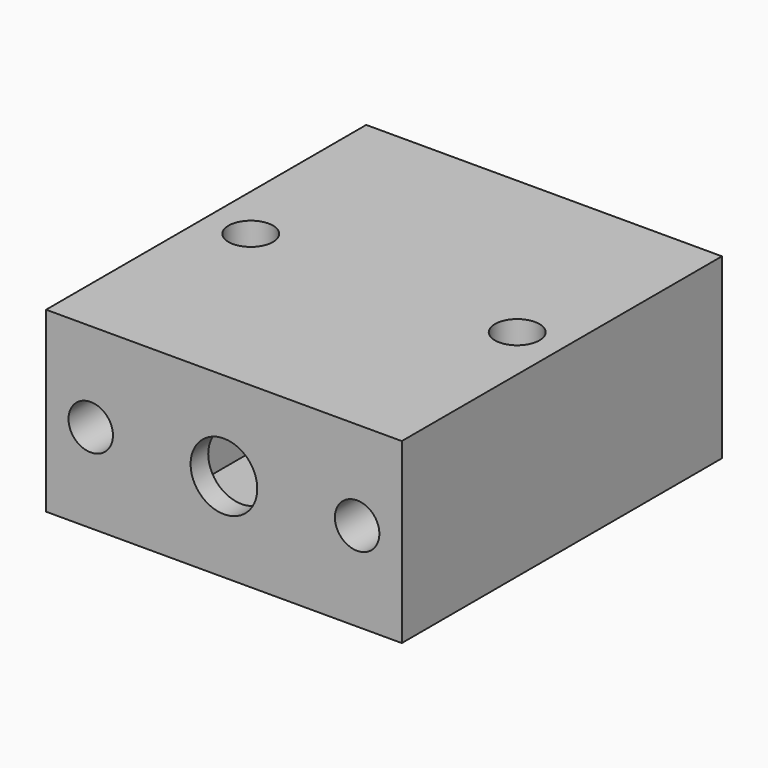
from build123d import *

# Parameters (mm, degrees)
F0_W     = 25.4
F0_H     = 28.575
F0_R     = 1.5875
F1_DEPTH = 12.7
F2_W     = 12.7
F2_H     = 9.4996
F3_DEPTH = 27.0002
F4_R     = 2.38125
F5_DEPTH = 1.5758
F6_R     = 1.5875
F7_DEPTH = 11.43
F8_R     = 1.5875
F9_DEPTH = 11.43


with BuildPart() as f1:
    # F0 (on Top) → F1 (new body)
    with BuildSketch(Plane.XY):
        Rectangle(F0_W, F0_H)
        with Locations((-9.5123, 0)):
            Circle(F0_R, mode=Mode.SUBTRACT)
        with Locations((9.5123, 0)):
            Circle(F0_R, mode=Mode.SUBTRACT)
    extrude(amount=F1_DEPTH)

    # F2 (on face) → F3 (cut)
    with BuildSketch(Plane(origin=(0, 14.2875, 0), x_dir=(-1, 0, 0), z_dir=(0, 1, 0))):
        with Locations((0, 6.35)):
            Rectangle(F2_W, F2_H)
    extrude(amount=-F3_DEPTH, mode=Mode.SUBTRACT)

    # F4 (on face) → F5 (cut, through all)
    with BuildSketch(Plane(origin=(0, -12.7127, 0), x_dir=(-1, 0, 0), z_dir=(0, 1, 0))):
        with Locations((0, 6.35)):
            Circle(F4_R)
    extrude(amount=-F5_DEPTH, mode=Mode.SUBTRACT)

    # F6 (on face) → F7 (cut)
    with BuildSketch(Plane.XZ.offset(14.2875)):
        with Locations((-9.5123, 6.35)):
            Circle(F6_R)
        with Locations((9.5123, 6.35)):
            Circle(F6_R)
    extrude(amount=-F7_DEPTH, mode=Mode.SUBTRACT)

    # F8 (on face) → F9 (cut)
    with BuildSketch(Plane(origin=(0, 14.2875, 0), x_dir=(-1, 0, 0), z_dir=(0, 1, 0))):
        with Locations((-9.5123, 6.35)):
            Circle(F8_R)
        with Locations((9.5123, 6.35)):
            Circle(F8_R)
    extrude(amount=-F9_DEPTH, mode=Mode.SUBTRACT)


solid = f1.part
